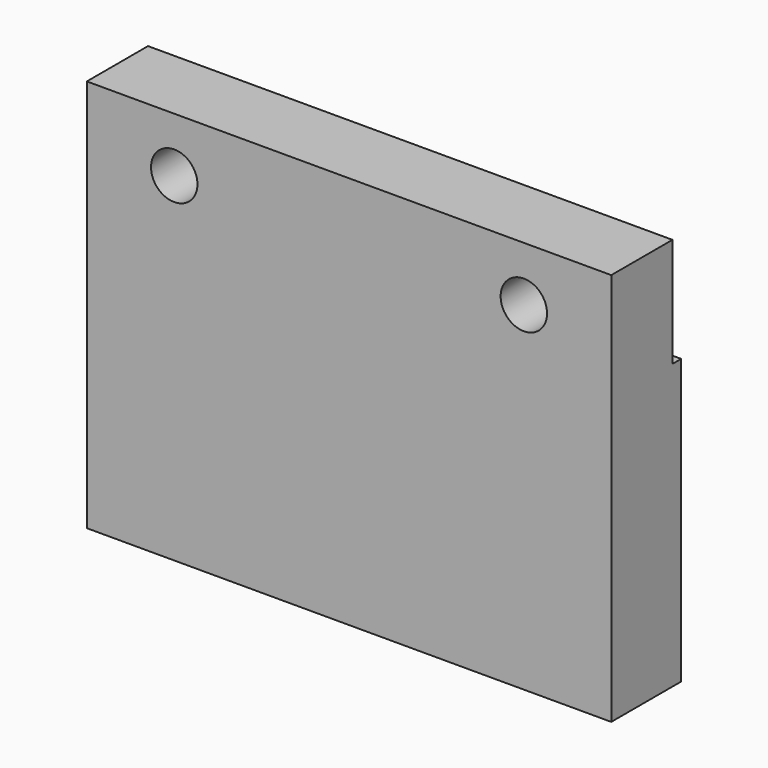
from build123d import *

# Parameters (mm, degrees)
F0_W     = 152.4
F0_H     = 114.3
F1_DEPTH = 25.4
F2_W     = 152.4
F2_H     = 31.75
F3_DEPTH = 3.175
F5_D     = 13.49248


with BuildPart() as f1:
    # F0 (on Front) → F1 (new body)
    with BuildSketch(Plane.XZ):
        Rectangle(F0_W, F0_H)
    extrude(amount=F1_DEPTH)

    # F2 (on face) → F3 (cut)
    with BuildSketch(Plane(origin=(0, 0, 0), x_dir=(-1, 0, 0), z_dir=(0, 1, 0))):
        with Locations((0, 41.275)):
            Rectangle(F2_W, F2_H)
    extrude(amount=-F3_DEPTH, mode=Mode.SUBTRACT)

    # F5 (through all)
    with Locations(Plane(origin=(0, -3.175, 0), x_dir=(-1, 0, 0), z_dir=(0, 1, 0))):
        with Locations((50.8, 41.275), (-50.8, 41.275)):
            Hole(F5_D / 2)


solid = f1.part
